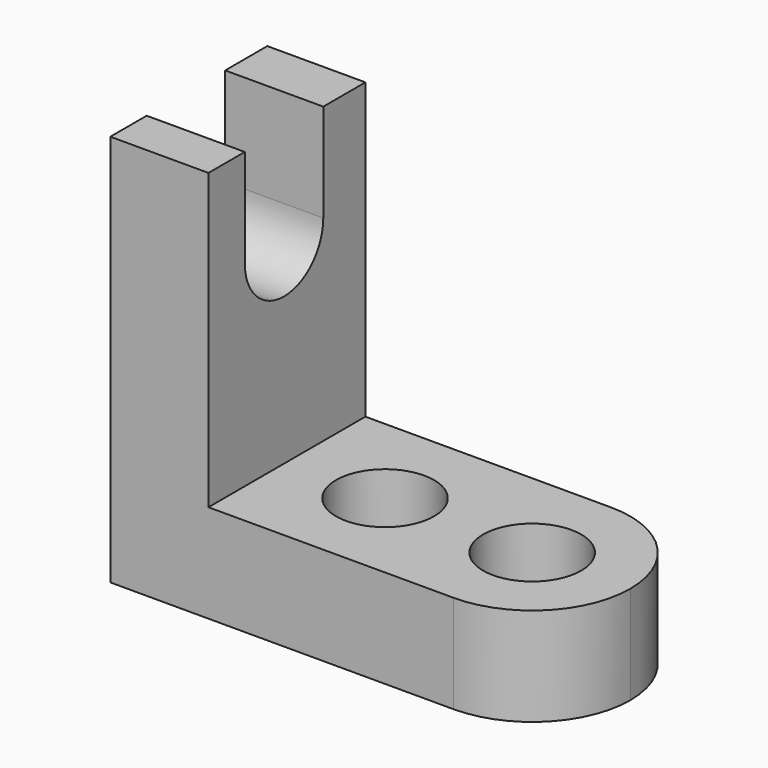
from build123d import *

# Parameters (mm, degrees)
F1_DEPTH = 25.4
F2_R     = 6.35
F3_DEPTH = 25.4
F6_DEPTH = 25.4


with BuildPart() as f1:
    # F0 (on Front) → F1 (new body)
    with BuildSketch(Plane.XZ):
        Polygon((-46.874787, 58.363431), (-59.574787, 58.363431), (-59.574787, 7.563431), (-2.424787, 7.563431), (-2.424787, 20.263431), (-46.874787, 20.263431), align=None)
    extrude(amount=F1_DEPTH)

    # F2 (on face) → F3 (cut)
    with BuildSketch(Plane.XY.offset(20.263431)):
        with Locations((-34.174787, -12.7)):
            Circle(F2_R)
        with Locations((-15.124787, -12.7)):
            Circle(F2_R)
        with BuildLine():
            ThreePointArc((-15.124787, 0), (-6.14453, -3.719744), (-2.424787, -12.7))
            Line((-2.424787, -12.7), (-2.424787, 0))
            Line((-2.424787, 0), (-15.124787, 0))
        make_face()
        with BuildLine():
            ThreePointArc((-2.424787, -12.7), (-6.14453, -21.680256), (-15.124787, -25.4))
            Line((-15.124787, -25.4), (-2.424787, -25.4))
            Line((-2.424787, -25.4), (-2.424787, -12.7))
        make_face()
    extrude(amount=-F3_DEPTH, mode=Mode.SUBTRACT)

    # F4 (on face) → F6 (cut)
    with BuildSketch(Plane.YZ.offset(-46.874787)):
        with BuildLine():
            ThreePointArc((-19.517475, 45.663431), (-13.167475, 39.313431), (-6.817475, 45.663431))
            ThreePointArc((-6.817475, 45.663431), (-13.167475, 52.013431), (-19.517475, 45.663431))
        make_face()
        with BuildLine():
            ThreePointArc((-19.517475, 45.663431), (-13.167475, 52.013431), (-6.817475, 45.663431))
            Line((-6.817475, 45.663431), (-6.817475, 58.363431))
            Line((-6.817475, 58.363431), (-19.517475, 58.363431))
            Line((-19.517475, 58.363431), (-19.517475, 45.663431))
        make_face()
    extrude(amount=-F6_DEPTH, mode=Mode.SUBTRACT)


solid = f1.part
